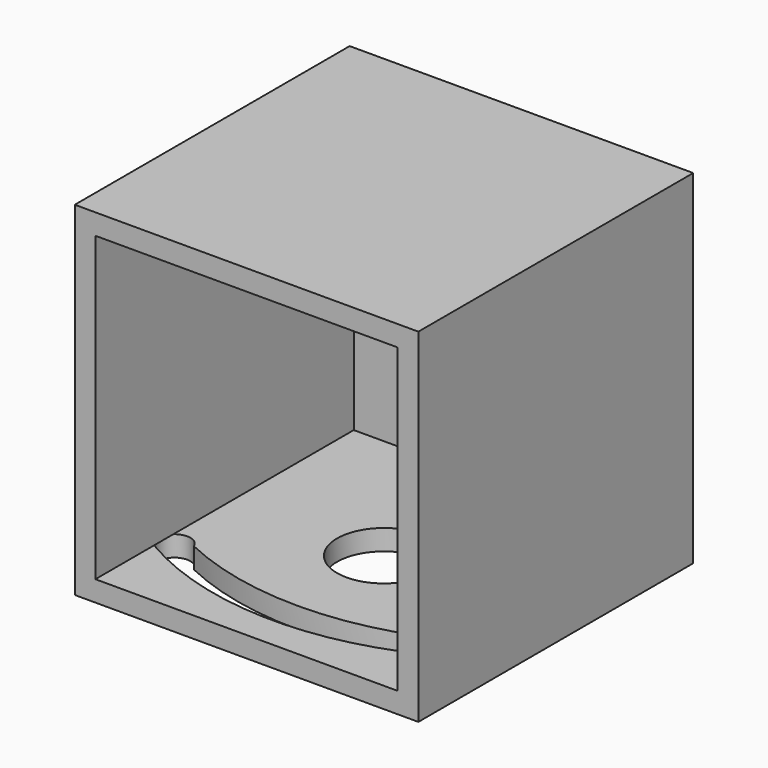
from build123d import *

# Parameters (mm, degrees)
F0_W     = 150
F0_H     = 150
F1_DEPTH = 9
F2_W     = 150
F2_H     = 150
F2_W_2   = 132
F2_H_2   = 132
F3_DEPTH = 141
F4_R     = 20.5
F5_DEPTH = 9
F6_R     = 35
F7_DEPTH = 9
F9_DEPTH = 9


with BuildPart() as f1:
    # F0 (on Front) → F1 (new body)
    with BuildSketch(Plane.XZ):
        Rectangle(F0_W, F0_H)
    extrude(amount=F1_DEPTH)

    # F2 (on face) → F3 (join)
    with BuildSketch(Plane.XZ.offset(9)):
        Rectangle(F2_W, F2_H)
        Rectangle(F2_W_2, F2_H_2, mode=Mode.SUBTRACT)
    extrude(amount=F3_DEPTH)

    # F4 (on face) → F5 (cut, through all)
    with BuildSketch(Plane(origin=(0, 0, -75), x_dir=(1, 0, 0), z_dir=(0, 0, -1))):
        with Locations((0, 75)):
            Circle(F4_R)
    extrude(amount=-F5_DEPTH, mode=Mode.SUBTRACT)

    # F6 (on face) → F7 (cut, through all)
    with BuildSketch(Plane(origin=(0, 0, 0), x_dir=(-1, 0, 0), z_dir=(0, 1, 0))):
        Circle(F6_R)
    extrude(amount=-F7_DEPTH, mode=Mode.SUBTRACT)

    # F8 (on face) → F9 (cut, through all)
    with BuildSketch(Plane(origin=(0, 0, -75), x_dir=(1, 0, 0), z_dir=(0, 0, -1))):
        with BuildLine():
            ThreePointArc((55, 110), (63.698903, 109.948769), (65, 118.549972))
            ThreePointArc((65, 118.549972), (0, 136), (-65, 118.549972))
            ThreePointArc((-65, 118.549972), (-65.902612, 107.371324), (-55, 110))
            ThreePointArc((-55, 110), (0, 122.300128), (55, 110))
        make_face()
    extrude(amount=-F9_DEPTH, mode=Mode.SUBTRACT)


solid = f1.part
